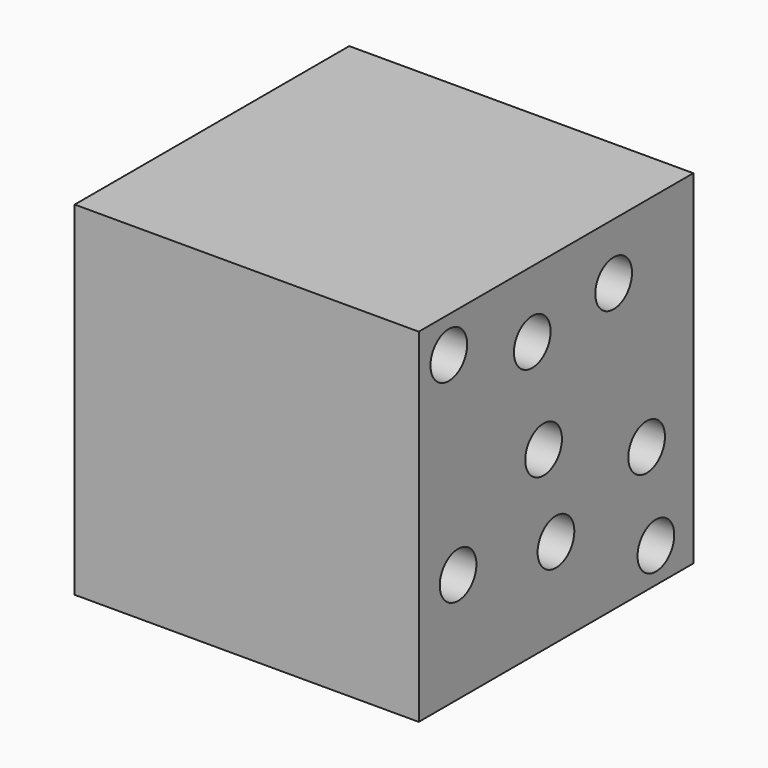
from build123d import *

# Parameters (mm, degrees)
F0_W     = 75.010031
F0_H     = 74.819528
F1_DEPTH = 74.9
F3_D     = 10


with BuildPart() as f1:
    # F0 (on Top) → F1 (new body)
    with BuildSketch(Plane.XY):
        with Locations((37.505015, -37.409764)):
            Rectangle(F0_W, F0_H)
    extrude(amount=F1_DEPTH)

    # F3 (through all)
    with Locations(Plane.YZ.offset(75.010031)):
        with Locations((-21.707887, 62.606953), (-40.798798, 38.462568), (-37.429813, 19.371659), (-66.627674, 67.09893), (-43.88703, 60.360968), (-12.723929, 27.51337), (-64.100936, 23.863638), (-10.197191, 7.580214)):
            Hole(F3_D / 2)


solid = f1.part
